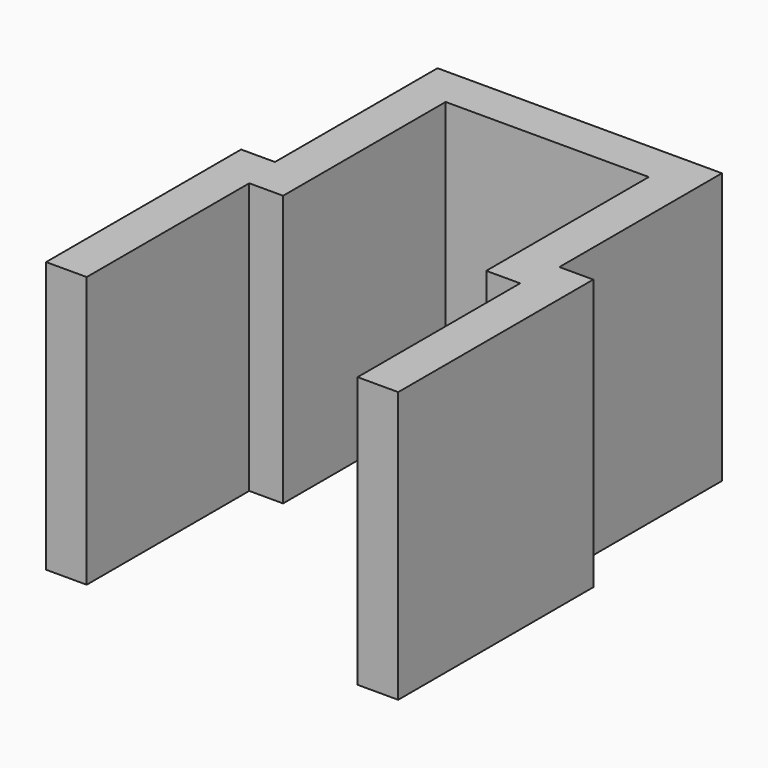
from build123d import *

# Parameters (mm, degrees)
F1_DEPTH = 20


with BuildPart() as f1:
    # F0 (on Top) → F1 (new body)
    with BuildSketch(Plane.XY):
        Polygon((-7.5, -7.5), (-7.5, 7.5), (7.5, 7.5), (7.5, -7.5), (10, -7.5), (10, -22.5), (13, -22.5), (13, -4.5), (10.5, -4.5), (10.5, 10.5), (-10.5, 10.5), (-10.5, -4.5), (-13, -4.5), (-13, -22.5), (-10, -22.5), (-10, -7.5), align=None)
    extrude(amount=F1_DEPTH)


solid = f1.part
